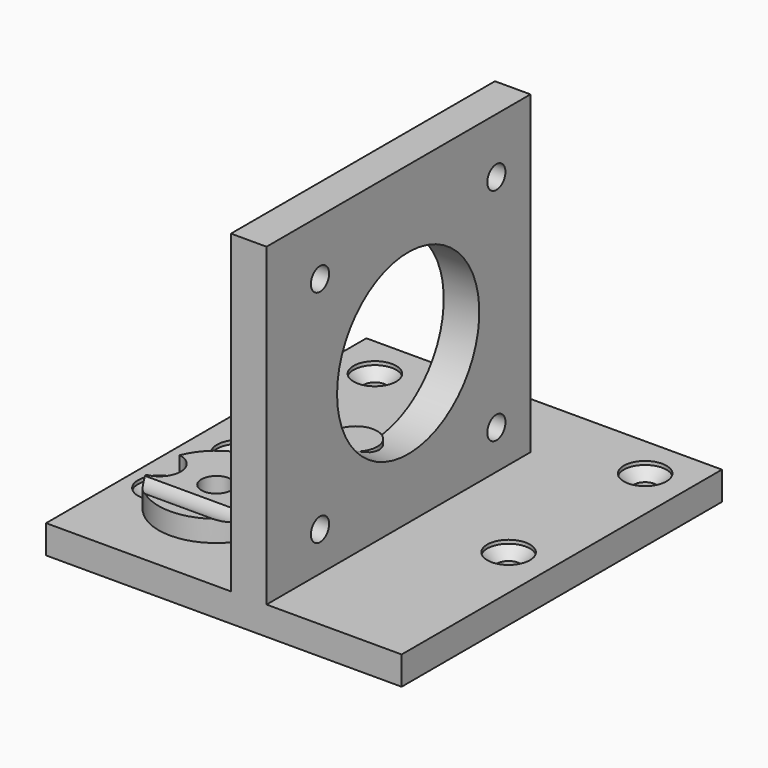
from build123d import *

# Parameters (mm, degrees)
F4_W      = 5
F4_H      = 46.4
F6_R      = 8.1
F8_R      = 12.5
F8_R_2    = 1.6
F9_DEPTH  = 5
F10_R     = 2.1
F11_DEPTH = 7
F12_R     = 3
F13_DEPTH = 26


with BuildPart() as f3:
    # F3: sweep along a path in F1
    with BuildLine(Plane.XZ) as f3_path:
        Line((0, 0), (0, 4))
    # F2 (on Top) → F3 (sweep)
    with BuildSketch(Plane.XY):
        Polygon((-25, 33.1), (-25, 23.2), (-25, -23.2), (25, -23.2), (25, 23.2), (25, 33.1), align=None)
    sweep(path=f3_path.line)

    # F5: sweep along a path in F1
    with BuildLine(Plane.XZ) as f5_path:
        Line((0, 0), (0, 4))
        Line((0, 4), (0, 7))
        Line((0, 7), (0, 48.3))
    # F4 (on Top) → F5 (sweep)
    with BuildSketch(Plane.XY):
        with Locations((3.5, 0)):
            Rectangle(F4_W, F4_H)
    sweep(path=f5_path.line)

    # F7: sweep along a path in F1
    with BuildLine(Plane.XZ) as f7_path:
        Line((0, 0), (0, 4))
        Line((0, 4), (0, 7))
    # F6 (on Top) → F7 (sweep)
    with BuildSketch(Plane.XY):
        with Locations((-12.5, -8.9)):
            Circle(F6_R)
    sweep(path=f7_path.line)

    # F8 (on face) → F9 (cut, through all)
    with BuildSketch(Plane(origin=(1, 0, 0), x_dir=(0, -1, 0), z_dir=(-1, 0, 0))):
        with Locations((-1.7, 25)):
            Circle(F8_R)
        with Locations((-17.2, 40.5)):
            Circle(F8_R_2)
        with Locations((13.8, 40.5)):
            Circle(F8_R_2)
        with Locations((13.8, 9.5)):
            Circle(F8_R_2)
        with Locations((-17.2, 9.5)):
            Circle(F8_R_2)
    extrude(amount=-F9_DEPTH, mode=Mode.SUBTRACT)

    # F10 (on Top) → F11 (cut, through all)
    with BuildSketch(Plane.XY):
        with Locations((-12.5, -8.9)):
            Circle(F10_R)
    extrude(amount=F11_DEPTH, mode=Mode.SUBTRACT)

    # F12 (on face) → F13 (cut, through all)
    with BuildSketch(Plane(origin=(1, 0, 0), x_dir=(0, -1, 0), z_dir=(-1, 0, 0))):
        with Locations((13.8, 9.5)):
            Circle(F12_R)
    extrude(amount=F13_DEPTH, mode=Mode.SUBTRACT)


with BuildPart() as f15:
    # F14 (on Right) → F15 (revolve)
    with BuildSketch(Plane.YZ):
        Polygon((-1.6, 0), (0, 0), (0, 4), (0, 13.1310271099), (-3, 13.1310271099), (-3, 4), (-3, 3.5), (-1.6, 2.1), align=None)
    revolve(axis=Axis((0, 0, 2), (0, 0, 1)))


with BuildPart() as f16_1:
    # F16: copy of F15
    add(f15.part.moved(Location((-20.5, -8.9, 0))))


with BuildPart() as f17_1:
    # F17: copy of F15
    add(f15.part.moved(Location((-4.5, -8.9, 0))))


with BuildPart() as f18_1:
    # F18: copy of F15
    add(f15.part.moved(Location((-19, 3.1, 0))))


with BuildPart() as f19_1:
    # F19: copy of F15
    add(f15.part.moved(Location((-19, 27.1, 0))))


with BuildPart() as f20_1:
    # F20: copy of F15
    add(f15.part.moved(Location((19, 27.1, 0))))


with BuildPart() as f21_1:
    # F21: copy of F15
    add(f15.part.moved(Location((19, 3.1, 0))))


with BuildPart() as f3_1:
    add(f3.part)

    # F22: cut F16_1, F17_1, F19_1, F18_1, F21_1, F20_1
    add(f16_1.part, mode=Mode.SUBTRACT)
    add(f17_1.part, mode=Mode.SUBTRACT)
    add(f19_1.part, mode=Mode.SUBTRACT)
    add(f18_1.part, mode=Mode.SUBTRACT)
    add(f21_1.part, mode=Mode.SUBTRACT)
    add(f20_1.part, mode=Mode.SUBTRACT)


solid = Compound([f15.part, f3_1.part])
